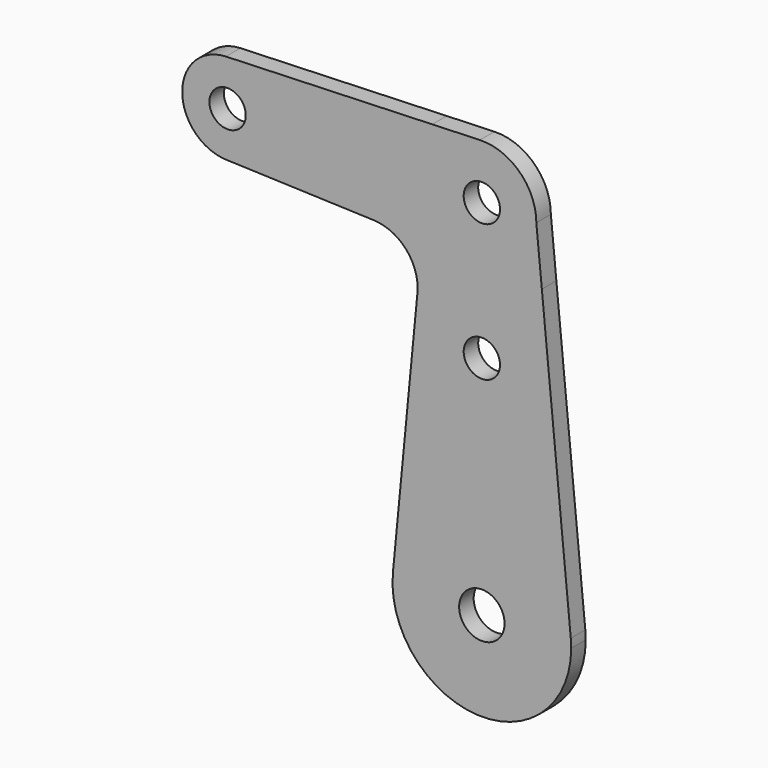
from build123d import *

# Parameters (mm, degrees)
F0_R     = 3.175
F0_R_2   = 3.96875
F1_DEPTH = 3.175
F2_R     = 7.9375


with BuildPart() as f1:
    # F0 (on Front) → F1 (new body)
    with BuildSketch(Plane.XZ):
        with BuildLine():
            ThreePointArc((-0.3401787076, -9.5189234395), (6.6138272887, -6.8544083329), (9.525, 0))
            ThreePointArc((9.525, 0), (6.6138273092, 6.8544083132), (-0.3401786508, 9.5189234415))
            ThreePointArc((-0.3401786508, 9.5189234415), (-6.5286581765, 6.9355783763), (-9.481007181, 0.9144002588))
            ThreePointArc((-9.481007181, 0.9144002588), (-7.164320199, -6.2767938541), (-0.3401787076, -9.5189234395))
        make_face()
        Circle(F0_R, mode=Mode.SUBTRACT)
        with BuildLine():
            Line((10.4874381875, -9.9058708993), (9.525, 0))
            ThreePointArc((9.525, 0), (6.6138272887, -6.8544083329), (-0.3401787076, -9.5189234395))
            Line((-0.3401787076, -9.5189234395), (10.4874381875, -9.9058708993))
        make_face()
        with BuildLine():
            ThreePointArc((-9.481007181, 0.9144002588), (-6.5286581765, 6.9355783763), (-0.3401786508, 9.5189234415))
            Line((-0.3401786508, 9.5189234415), (-8.6798843665, 9.2208866737))
            Line((-8.6798843665, 9.2208866737), (-9.481007181, 0.9144002588))
        make_face()
        with BuildLine():
            Line((-10.4524001899, -9.157542126), (-0.3401787076, -9.5189234395))
            ThreePointArc((-0.3401787076, -9.5189234395), (-7.164320199, -6.2767938541), (-9.481007181, 0.9144002588))
            Line((-9.481007181, 0.9144002588), (-10.4524001899, -9.157542126))
        make_face()
        with BuildLine():
            Line((10.4874381875, -9.9058708993), (-0.3401787076, -9.5189234395))
            Line((-0.3401787076, -9.5189234395), (-10.4524001899, -9.157542126))
            Line((-10.4524001899, -9.157542126), (-15.5488517247, -62.0003830342))
            ThreePointArc((-15.5488517247, -62.0003830342), (-0.0055160109, -47.8790009739), (15.5477887724, -61.9894023403))
            Line((15.5477887724, -61.9894023403), (10.4874381875, -9.9058708993))
        make_face()
        with Locations((0, -23.9574573934)):
            Circle(F0_R, mode=Mode.SUBTRACT)
        with BuildLine():
            Line((-10.4524001899, -9.157542126), (-9.481007181, 0.9144002588))
            Line((-9.481007181, 0.9144002588), (-8.6798843665, 9.2208866737))
            Line((-8.6798843665, 9.2208866737), (-44.7334816061, 7.9324362228))
            ThreePointArc((-44.7334816061, 7.9324362228), (-38.9384770253, 5.7120067182), (-36.5125, 0))
            ThreePointArc((-36.5125, 0), (-38.9384772211, -5.7120069072), (-44.7334821499, -7.9324362034))
            Line((-44.7334821499, -7.9324362034), (-10.4524001899, -9.157542126))
        make_face()
        with BuildLine():
            ThreePointArc((15.621, -63.5), (15.602686458, -62.7438146435), (15.5477887724, -61.9894023403))
            ThreePointArc((15.5477887724, -61.9894023403), (-0.0055160109, -47.8790009739), (-15.5488517247, -62.0003830342))
            ThreePointArc((-15.5488517247, -62.0003830342), (-0.7506757652, -79.1029525057), (15.621, -63.5))
        make_face()
        with Locations((0, -63.5)):
            Circle(F0_R_2, mode=Mode.SUBTRACT)
        with BuildLine():
            ThreePointArc((-36.5125, 0), (-38.9384770253, 5.7120067182), (-44.7334816061, 7.9324362228))
            ThreePointArc((-44.7334816061, 7.9324362228), (-52.3875, 2.721e-07), (-44.7334821499, -7.9324362034))
            ThreePointArc((-44.7334821499, -7.9324362034), (-38.9384772211, -5.7120069072), (-36.5125, 0))
        make_face()
        with Locations((-44.45, 0)):
            Circle(F0_R, mode=Mode.SUBTRACT)
    extrude(amount=F1_DEPTH)

    # F2
    f2_edges = [f1.edges().sort_by_distance(p)[0] for p in [
        (-10.4524, -1.5875, -9.157542),
    ]]
    fillet(f2_edges, radius=F2_R)


solid = f1.part
